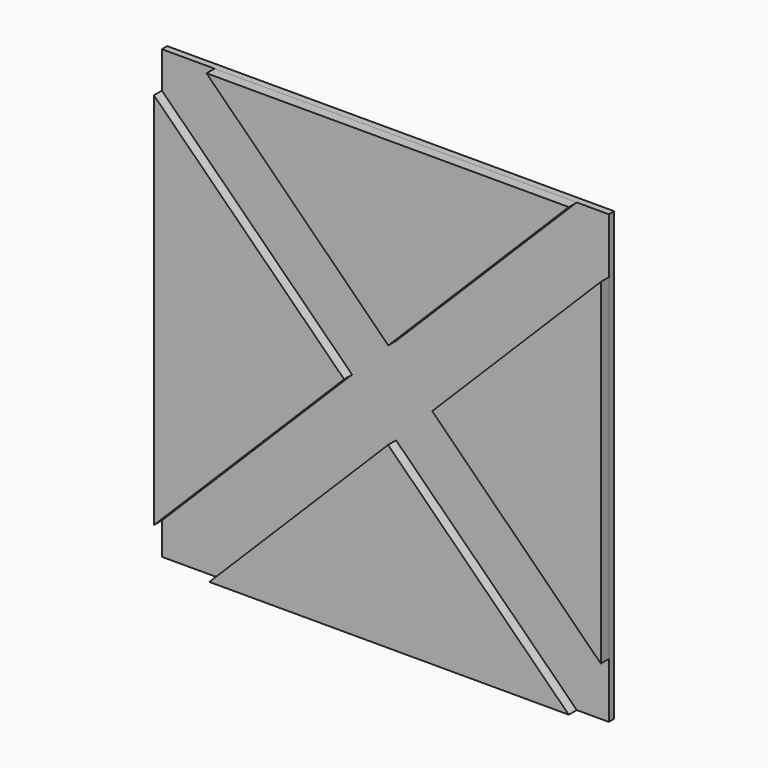
from build123d import *

# Parameters (mm, degrees)
F1_DEPTH = 2.5
F2_DEPTH = 1


with BuildPart() as f1:
    # F0 (on Front) → F1 (new body)
    with BuildSketch(Plane.XZ):
        Polygon((-33.5, 28.033137), (-33.5, -28.7), (-4.980549, -0.180549), align=None)
        Polygon((1.643069, 6.443069), (28.7, 33.5), (-25.60865, 33.5), align=None)
        Polygon((8.223509, -0.090335), (33.5, -25.186156), (33.5, 25.186156), align=None)
        Polygon((-25.186156, -33.5), (28.7, -33.5), (1.611712, -6.702132), align=None)
    extrude(amount=F1_DEPTH)


with BuildPart() as f2:
    # F0 (on Front) → F2 (new body)
    with BuildSketch(Plane.XZ):
        Polygon((28.7, -33.5), (33.5, -33.5), (33.5, -25.186156), (8.223509, -0.090335), (33.5, 25.186156), (33.5, 33.5), (28.7, 33.5), (1.643069, 6.443069), (-25.60865, 33.5), (-33.5, 33.5), (-33.5, 28.033137), (-4.980549, -0.180549), (-33.5, -28.7), (-33.5, -33.5), (-25.186156, -33.5), (1.611712, -6.702132), align=None)
        Polygon((-25.186156, -33.5), (28.7, -33.5), (1.611712, -6.702132), align=None)
        Polygon((8.223509, -0.090335), (33.5, -25.186156), (33.5, 25.186156), align=None)
        Polygon((-33.5, 28.033137), (-33.5, -28.7), (-4.980549, -0.180549), align=None)
        Polygon((1.643069, 6.443069), (28.7, 33.5), (-25.60865, 33.5), align=None)
    extrude(amount=F2_DEPTH)


solid = Compound([f1.part, f2.part])
